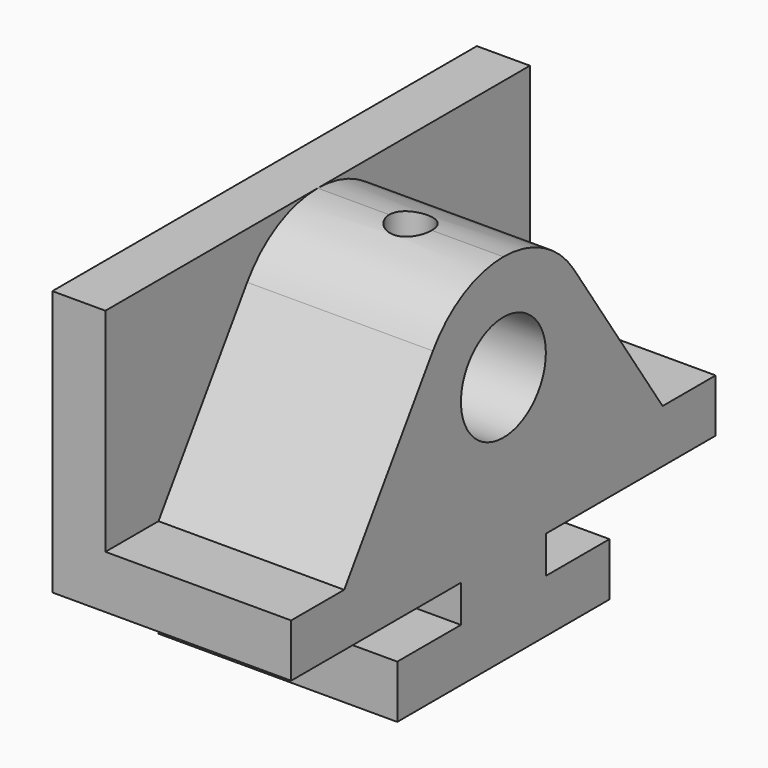
from build123d import *

# Parameters (mm, degrees)
F0_R     = 12.7
F1_DEPTH = 44.45
F3_DEPTH = 12.7
F4_R     = 5.08
F5_DEPTH = 13.7612578338


with BuildPart() as f1:
    # F0 (on Right) → F1 (new body)
    with BuildSketch(Plane.YZ):
        with BuildLine():
            Line((-31.75, 0), (0, 0))
            Line((0, 0), (31.75, 0))
            Line((31.75, 0), (31.75, 12.7))
            Line((31.75, 12.7), (12.7, 12.7))
            Line((12.7, 12.7), (12.7, 21.59))
            Line((12.7, 21.59), (63.5, 21.59))
            Line((63.5, 21.59), (63.5, 34.29))
            Line((63.5, 34.29), (47.625, 34.29))
            Line((47.625, 34.29), (21.0934256055, 73.8401730104))
            ThreePointArc((21.0934256055, 73.8401730104), (11.9529411765, 82.1017647059), (0, 85.09))
            ThreePointArc((0, 85.09), (-11.9529411765, 82.1017647059), (-21.0934256055, 73.8401730104))
            Line((-21.0934256055, 73.8401730104), (-47.625, 34.29))
            Line((-47.625, 34.29), (-63.5, 34.29))
            Line((-63.5, 34.29), (-63.5, 21.59))
            Line((-63.5, 21.59), (-12.7, 21.59))
            Line((-12.7, 21.59), (-12.7, 12.7))
            Line((-12.7, 12.7), (-31.75, 12.7))
            Line((-31.75, 12.7), (-31.75, 0))
        make_face()
        with Locations((0, 59.69)):
            Circle(F0_R, mode=Mode.SUBTRACT)
    extrude(amount=F1_DEPTH)

    # F0 (on Right) + F2 (on face) → F3 (join)
    with BuildSketch(Plane.YZ):
        with BuildLine():
            Line((-31.75, 0), (0, 0))
            Line((0, 0), (31.75, 0))
            Line((31.75, 0), (31.75, 12.7))
            Line((31.75, 12.7), (12.7, 12.7))
            Line((12.7, 12.7), (12.7, 21.59))
            Line((12.7, 21.59), (63.5, 21.59))
            Line((63.5, 21.59), (63.5, 34.29))
            Line((63.5, 34.29), (47.625, 34.29))
            Line((47.625, 34.29), (21.0934256055, 73.8401730104))
            ThreePointArc((21.0934256055, 73.8401730104), (11.9529411765, 82.1017647059), (0, 85.09))
            ThreePointArc((0, 85.09), (-11.9529411765, 82.1017647059), (-21.0934256055, 73.8401730104))
            Line((-21.0934256055, 73.8401730104), (-47.625, 34.29))
            Line((-47.625, 34.29), (-63.5, 34.29))
            Line((-63.5, 34.29), (-63.5, 21.59))
            Line((-63.5, 21.59), (-12.7, 21.59))
            Line((-12.7, 21.59), (-12.7, 12.7))
            Line((-12.7, 12.7), (-31.75, 12.7))
            Line((-31.75, 12.7), (-31.75, 0))
        make_face()
        with Locations((0, 59.69)):
            Circle(F0_R, mode=Mode.SUBTRACT)
        with BuildLine():
            Line((-63.5, 85.09), (-63.5, 34.29))
            Line((-63.5, 34.29), (-47.625, 34.29))
            Line((-47.625, 34.29), (-21.0934256055, 73.8401730104))
            ThreePointArc((-21.0934256055, 73.8401730104), (-11.9529411765, 82.1017647059), (0, 85.09))
            Line((0, 85.09), (-63.5, 85.09))
        make_face()
        with BuildLine():
            Line((47.625, 34.29), (63.5, 34.29))
            Line((63.5, 34.29), (63.5, 85.09))
            Line((63.5, 85.09), (0, 85.09))
            ThreePointArc((0, 85.09), (11.9529411765, 82.1017647059), (21.0934256055, 73.8401730104))
            Line((21.0934256055, 73.8401730104), (47.625, 34.29))
        make_face()
        with Locations((0, 59.69)):
            Circle(F0_R)
    with BuildSketch(Plane(origin=(0, 0, 0), x_dir=(0, -1, 0), z_dir=(-1, 0, 0))):
        Polygon((-47.625, 34.29), (-63.5, 34.29), (-63.5, 21.59), (-12.7, 21.59), (12.7, 21.59), (63.5, 21.59), (63.5, 34.29), (47.625, 34.29), align=None)
    extrude(amount=-F3_DEPTH, dir=(1, 0, 0))

    # F4 (on face) → F5 (cut, through all)
    with BuildSketch(Plane.XY.offset(85.09)):
        with Locations((22.225, 0)):
            Circle(F4_R)
    extrude(amount=-F5_DEPTH, mode=Mode.SUBTRACT)


solid = f1.part
